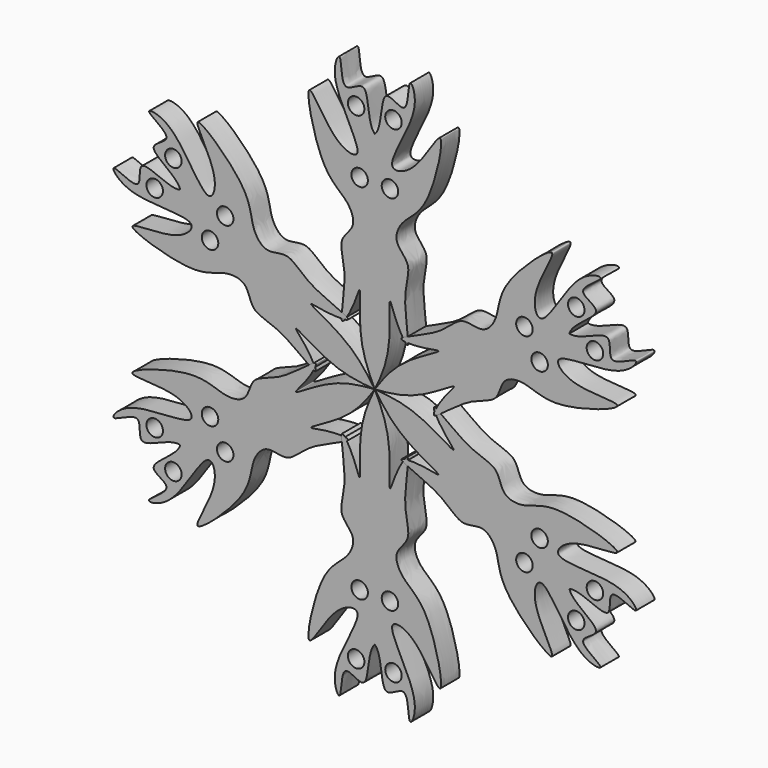
from build123d import *

# Parameters (mm, degrees)
F0_R     = 2.1552613508
F0_R_2   = 2.1552581898
F1_DEPTH = 6
F3_COUNT = 6


with BuildPart() as f1:
    # F0 (on Front) → F1 (new body)
    with BuildSketch(Plane.XZ):
        with BuildLine():
            add(Edge.make_bspline(
                [(0, 58.6740002036), (2.0881126503, 60.7086047831), (0.8327288775, 72.4008633551), (9.1553128812, 63.8849850419), (8.3495789094, 76.7157807779), (12.8246812208, 67.050210678), (0.5968147074, 50.7948544167), (11.1223516886, 52.7363209395), (19.7686506624, 71.2687539716), (14.5575709245, 45.2749639869), (7.1574720528, 41.7893255307), (4.5317749285, 35.4858026689), (10.1593969408, 31.5419587852), (6.6399326418, 24.553197873), (10.177648937, 8.9404240472), (5.2222627929, 17.6578214327), (3.3751547784, 24.5863795212), (4.6237524025, 9.8403127766), (1.5406899427, 3.2697191793), (0, 0)],
                knots=[0, 0, 0, 0, 0.0657848907, 0.1105499082, 0.1621358938, 0.2082758075, 0.2920925545, 0.3395724204, 0.4099940635, 0.4922316254, 0.5549563002, 0.60147324, 0.647823751, 0.7058416257, 0.7731117983, 0.8224629227, 0.8634272887, 0.9287089467, 1, 1, 1, 1], degree=3))
            add(Edge.make_bspline(
                [(0, 58.6740002036), (-2.0881126503, 60.7086047831), (-0.8327288775, 72.4008633551), (-9.1553128812, 63.8849850419), (-8.3495789094, 76.7157807779), (-12.8246812208, 67.050210678), (-0.5968147074, 50.7948544167), (-11.1223516886, 52.7363209395), (-19.7686506624, 71.2687539716), (-14.5575709245, 45.2749639869), (-7.1574720528, 41.7893255307), (-4.5317749285, 35.4858026689), (-10.1593969408, 31.5419587852), (-6.6399326418, 24.553197873), (-10.177648937, 8.9404240472), (-5.2222627929, 17.6578214327), (-3.3751547784, 24.5863795212), (-4.6237524025, 9.8403127766), (-1.5406899427, 3.2697191793), (0, 0)],
                knots=[0, 0, 0, 0, 0.0657848907, 0.1105499082, 0.1621358938, 0.2082758075, 0.2920925545, 0.3395724204, 0.4099940635, 0.4922316254, 0.5549563002, 0.60147324, 0.647823751, 0.7058416257, 0.7731117983, 0.8224629227, 0.8634272887, 0.9287089467, 1, 1, 1, 1], degree=3))
        make_face()
        with Locations((-3.962402232, 47.3963990808)):
            Circle(F0_R, mode=Mode.SUBTRACT)
        with Locations((-4.8768022098, 63.5508000851)):
            Circle(F0_R_2, mode=Mode.SUBTRACT)
        with Locations((3.962402232, 47.3963990808)):
            Circle(F0_R, mode=Mode.SUBTRACT)
        with Locations((4.8768022098, 63.5508000851)):
            Circle(F0_R_2, mode=Mode.SUBTRACT)
    extrude(amount=F1_DEPTH)


with BuildPart() as f3_1:
    # F3: instance of F1
    add(f1.part.rotate(Axis((0, -32.3088020086, 0), (0, -1, 0)), 1 * 360 / F3_COUNT))


with BuildPart() as f3_2:
    # F3: instance of F1
    add(f1.part.rotate(Axis((0, -32.3088020086, 0), (0, -1, 0)), 2 * 360 / F3_COUNT))


with BuildPart() as f3_3:
    # F3: instance of F1
    add(f1.part.rotate(Axis((0, -32.3088020086, 0), (0, -1, 0)), 3 * 360 / F3_COUNT))


with BuildPart() as f3_4:
    # F3: instance of F1
    add(f1.part.rotate(Axis((0, -32.3088020086, 0), (0, -1, 0)), 4 * 360 / F3_COUNT))


with BuildPart() as f3_5:
    # F3: instance of F1
    add(f1.part.rotate(Axis((0, -32.3088020086, 0), (0, -1, 0)), 5 * 360 / F3_COUNT))


solid = Compound([f1.part, f3_1.part, f3_2.part, f3_3.part, f3_4.part, f3_5.part])
